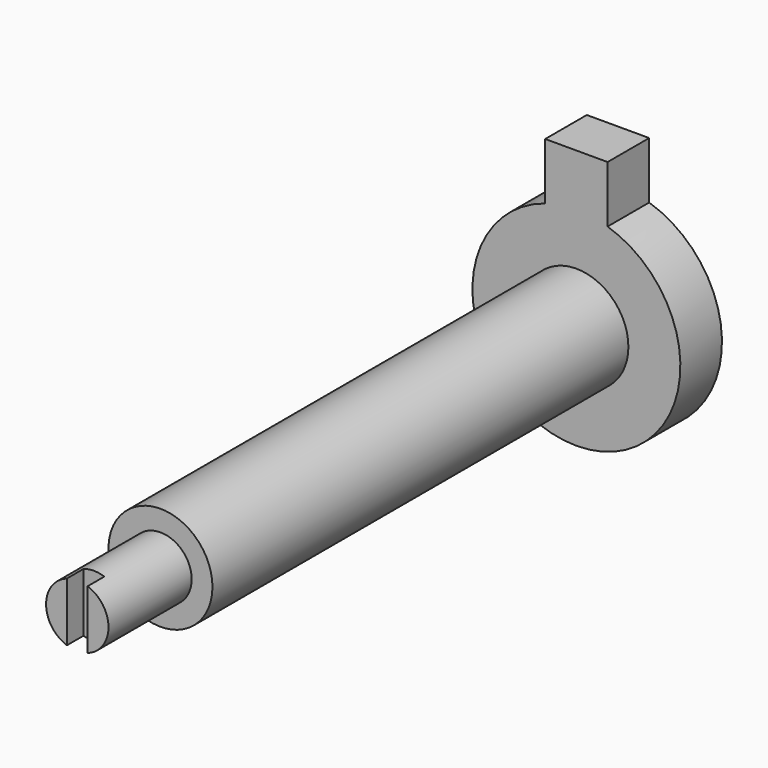
from build123d import *

# Parameters (mm, degrees)
F1_DEPTH = 6.35
F2_R     = 6.35
F3_DEPTH = 76.2
F4_R     = 6.35
F4_R_2   = 3.81
F5_DEPTH = 12.7
F6_W     = 2.54
F6_H     = 25.4
F7_DEPTH = 2.54


with BuildPart() as f1:
    # F0 (on Front) → F1 (new body)
    with BuildSketch(Plane.XZ):
        with BuildLine():
            Line((-3.81, 19.05), (-3.81, 12.115028))
            ThreePointArc((-3.81, 12.115028), (0, -12.7), (3.81, 12.115028))
            Line((3.81, 12.115028), (3.81, 19.05))
            Line((3.81, 19.05), (-3.81, 19.05))
        make_face()
    extrude(amount=F1_DEPTH)

    # F2 (on face) → F3 (join)
    with BuildSketch(Plane.XZ.offset(6.35)):
        Circle(F2_R)
    extrude(amount=F3_DEPTH)

    # F4 (on face) → F5 (cut)
    with BuildSketch(Plane.XZ.offset(82.55)):
        Circle(F4_R)
        Circle(F4_R_2, mode=Mode.SUBTRACT)
    extrude(amount=-F5_DEPTH, mode=Mode.SUBTRACT)

    # F6 (on face) → F7 (cut)
    with BuildSketch(Plane.XZ.offset(82.55)):
        Rectangle(F6_W, F6_H)
    extrude(amount=-F7_DEPTH, mode=Mode.SUBTRACT)


solid = f1.part
